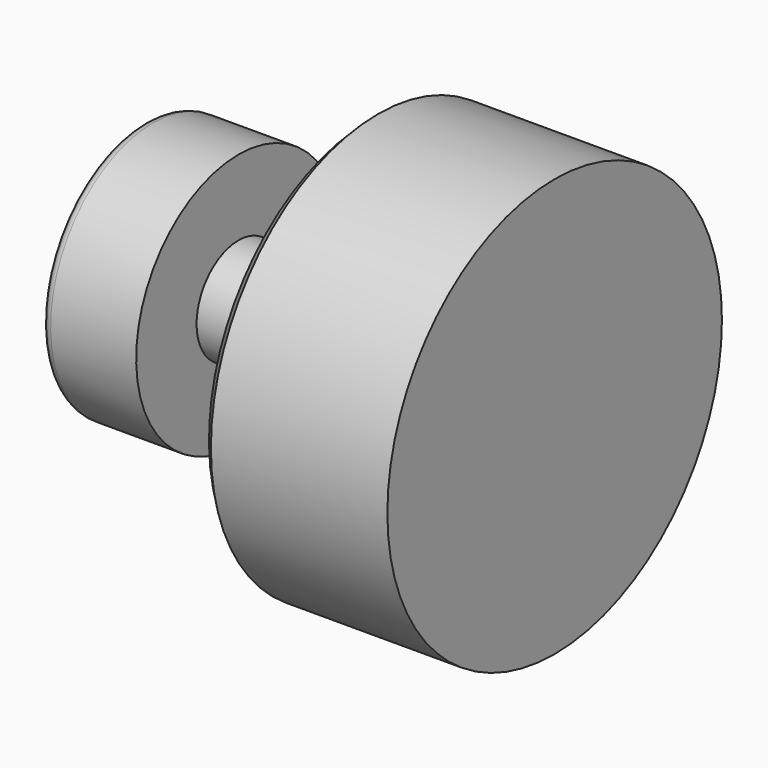
from build123d import *

# Parameters (mm, degrees)
F2_R    = 2
F3_SIZE = 2


with BuildPart() as f1:
    # F0 (on Front) → F1 (revolve)
    with BuildSketch(Plane.XZ):
        Polygon((0, 26.836595), (0, 0), (86.229056, 0), (86.229056, 43.847769), (47.220673, 43.847769), (47.220673, 10.998603), (19.944135, 10.998603), (19.944135, 26.836595), align=None)
    revolve(axis=Axis((43.114528, 0, 0), (1, 0, 0)))

    # F2
    f2_edges = [f1.edges().sort_by_distance(p)[0] for p in [
        (0, 0, -26.836595),
    ]]
    fillet(f2_edges, radius=F2_R)

    # F3
    f3_edges = [f1.edges().sort_by_distance(p)[0] for p in [
        (47.220673, 0, -43.847769),
    ]]
    chamfer(f3_edges, length=F3_SIZE)


solid = f1.part
